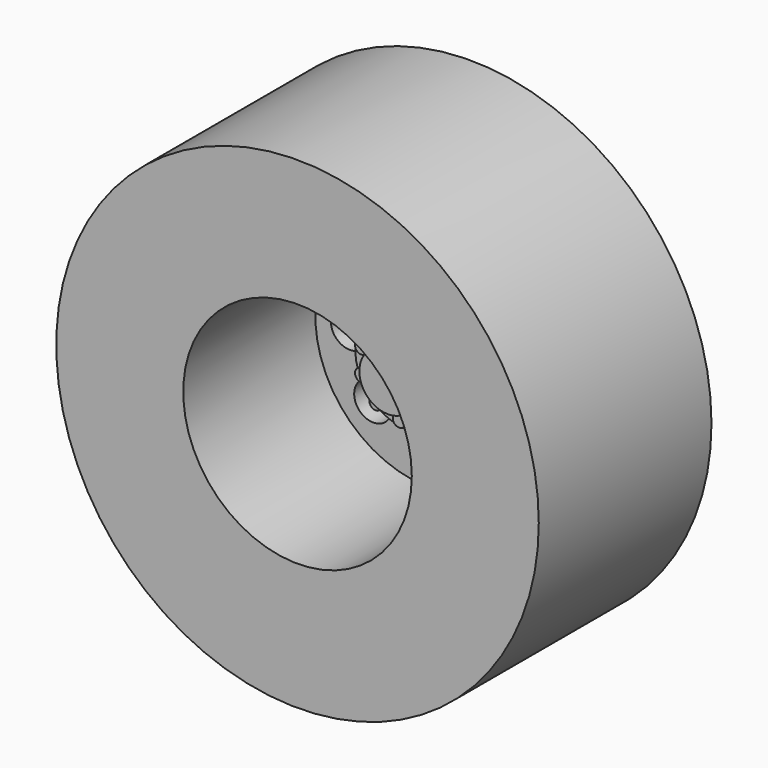
from build123d import *

# Parameters (mm, degrees)
F0_R      = 19
F1_DEPTH  = 17
F2_R      = 9
F3_DEPTH  = 13
F4_R      = 1.5
F5_DEPTH  = 25
F6_R      = 4.25
F7_DEPTH  = 2
F8_R      = 2.25
F9_DEPTH  = 2.1
F10_R     = 0.5
F11_DEPTH = 1
F12_R     = 3
F12_R_2   = 2
F13_DEPTH = 9
F15_R     = 18.5
F15_R_2   = 9.5
F16_DEPTH = 16


with BuildPart() as f1:
    # F0 (on Front) → F1 (new body)
    with BuildSketch(Plane.XZ):
        Circle(F0_R)
    extrude(amount=-F1_DEPTH)

    # F2 (on face) → F3 (cut)
    with BuildSketch(Plane.XZ):
        Circle(F2_R)
    extrude(amount=-F3_DEPTH, mode=Mode.SUBTRACT)

    # F4 (on face) → F5 (cut)
    with BuildSketch(Plane.XZ.offset(-13)):
        with Locations((0, 6.275373)):
            Circle(F4_R)
        with Locations((4.437359, 4.437359)):
            Circle(F4_R)
        with Locations((6.275373, 0)):
            Circle(F4_R)
        with Locations((4.437359, -4.437359)):
            Circle(F4_R)
        with Locations((0, -6.275373)):
            Circle(F4_R)
        with Locations((-4.437359, -4.437359)):
            Circle(F4_R)
        with Locations((-6.275373, 0)):
            Circle(F4_R)
        with Locations((-4.437359, 4.437359)):
            Circle(F4_R)
    extrude(amount=-F5_DEPTH, mode=Mode.SUBTRACT)

    # F6 (on face) → F7 (join)
    with BuildSketch(Plane.XZ.offset(-13)):
        Circle(F6_R)
    extrude(amount=F7_DEPTH)

    # F8 (on face) → F9 (join)
    with BuildSketch(Plane.XZ.offset(-11)):
        Circle(F8_R)
    extrude(amount=F9_DEPTH)

    # F10 (on face) → F11 (join)
    with BuildSketch(Plane.XZ.offset(-11)):
        with Locations((0, 3.12862)):
            Circle(F10_R)
        with Locations((1.838957, 2.531107)):
            Circle(F10_R)
        with Locations((2.975495, 0.966797)):
            Circle(F10_R)
        with Locations((2.975495, -0.966797)):
            Circle(F10_R)
        with Locations((1.838957, -2.531107)):
            Circle(F10_R)
        with Locations((0, -3.12862)):
            Circle(F10_R)
        with Locations((-1.838957, -2.531107)):
            Circle(F10_R)
        with Locations((-2.975495, -0.966797)):
            Circle(F10_R)
        with Locations((-2.975495, 0.966797)):
            Circle(F10_R)
        with Locations((-1.838957, 2.531107)):
            Circle(F10_R)
    extrude(amount=F11_DEPTH)

    # F12 (on face) → F13 (join)
    with BuildSketch(Plane(origin=(0, 17, 0), x_dir=(-1, 0, 0), z_dir=(0, 1, 0))):
        Circle(F12_R)
        Circle(F12_R_2, mode=Mode.SUBTRACT)
    extrude(amount=F13_DEPTH)

    # F15 (on face) → F16 (cut)
    with BuildSketch(Plane(origin=(0, 17, 0), x_dir=(-1, 0, 0), z_dir=(0, 1, 0))):
        Circle(F15_R)
        Circle(F15_R_2, mode=Mode.SUBTRACT)
    extrude(amount=-F16_DEPTH, mode=Mode.SUBTRACT)


solid = f1.part
